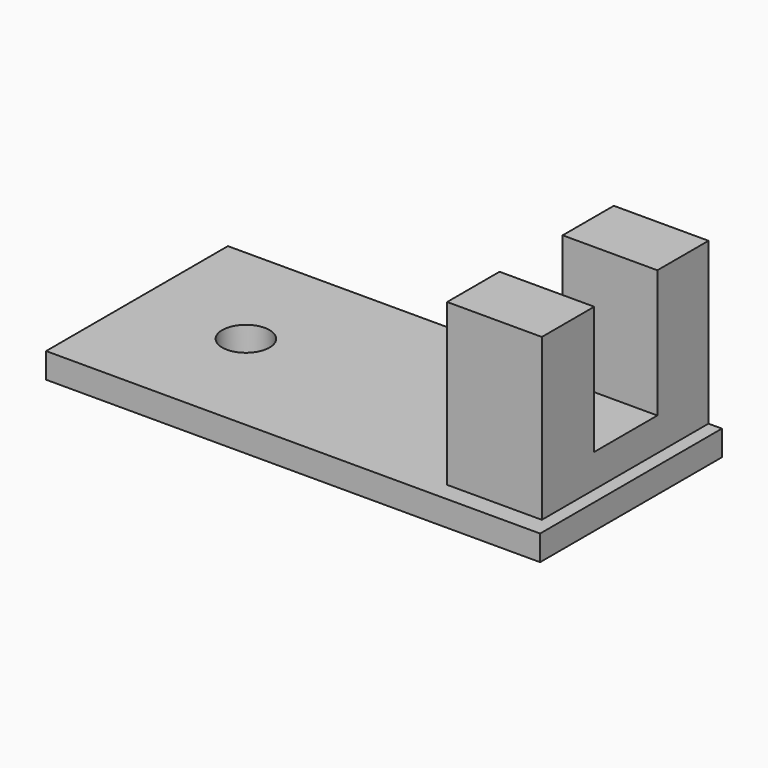
from build123d import *

# Parameters (mm, degrees)
SKETCH016_W             = 31.3
SKETCH016_H             = 14.4
PAD007_DEPTH            = 1.6
SKETCH017_R             = 1.5
POCKET006_DEPTH         = 1.6
SKETCH018_W             = 6
SKETCH018_H             = 13.2
PAD008_DEPTH            = 10.2
SKETCH019_W             = 6
SKETCH019_H             = 5
POCKET007_DEPTH         = 8.1
BODY004_PLACEMENT_ANGLE = 180


with BuildPart() as part:
    # Sketch016 → Pad007 (new body)
    with BuildSketch(Plane.XY.offset(-1.6)):
        with Locations((15.65, 7.2)):
            Rectangle(SKETCH016_W, SKETCH016_H)
    extrude(amount=PAD007_DEPTH)

    # Sketch017 (on Face6 of Pad007) → Pocket006 (cut)
    with BuildSketch(Plane.XY):
        with Locations((24.4, 7.2)):
            Circle(SKETCH017_R)
    extrude(amount=-POCKET006_DEPTH, mode=Mode.SUBTRACT)

    # Sketch018 (on Face5 of Pocket006) → Pad008 (join)
    with BuildSketch(Plane.XY):
        with Locations((3.85, 6.6)):
            Rectangle(SKETCH018_W, SKETCH018_H)
    extrude(amount=PAD008_DEPTH)

    # Sketch019 (on Face12 of Pad008) → Pocket007 (cut)
    with BuildSketch(Plane.XY.offset(10.2)):
        with Locations((3.85, 6.55)):
            Rectangle(SKETCH019_W, SKETCH019_H)
    extrude(amount=-POCKET007_DEPTH, mode=Mode.SUBTRACT)


with BuildPart() as part_1:
    # Body004 placement: moved
    add(part.part.moved(Location((13.5, -15, 1.5))).rotate(Axis((13.5, -15, 1.5), (0, 0, 1)), BODY004_PLACEMENT_ANGLE))


solid = part_1.part
